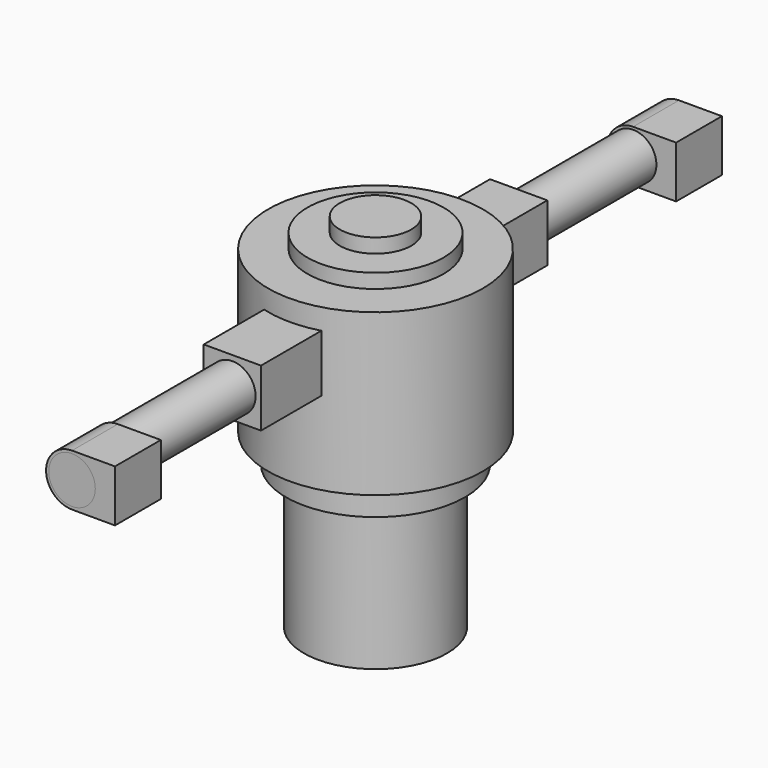
from build123d import *

# Parameters (mm, degrees)
F0_R      = 9.525
F1_DEPTH  = 14.2875
F2_R      = 6.0325
F3_DEPTH  = 1.27
F4_R      = 3.17246
F5_DEPTH  = 1.27
F7_W      = 5.08
F7_H      = 31.75
F8_DEPTH  = 5.08
F9_R      = 2.06375
F10_DEPTH = 12.7
F11_R     = 2.06375
F12_DEPTH = 5.08
F13_DEPTH = 5.08
F14_R     = 2.06375
F15_DEPTH = 12.7
F17_R     = 2.06375
F16_R     = 2.06375
F18_DEPTH = 5.08
F19_R     = 7.9375
F20_DEPTH = 2.54
F21_R     = 6.35
F22_DEPTH = 12.7


with BuildPart() as f1:
    # F0 (on Top) → F1 (new body)
    with BuildSketch(Plane.XY):
        Circle(F0_R)
    extrude(amount=F1_DEPTH)

    # F2 (on face) → F3 (join)
    with BuildSketch(Plane.XY.offset(14.2875)):
        Circle(F2_R)
    extrude(amount=F3_DEPTH)

    # F4 (on face) → F5 (join)
    with BuildSketch(Plane.XY.offset(15.5575)):
        Circle(F4_R)
    extrude(amount=F5_DEPTH)

    # F7 (on offset) → F8 (join)
    with BuildSketch(Plane.XY.offset(7.366)):
        Rectangle(F7_W, F7_H)
    extrude(amount=F8_DEPTH)

    # F9 (on face) → F10 (join)
    with BuildSketch(Plane.XZ.offset(15.875)):
        with Locations((0, 9.906)):
            Circle(F9_R)
    extrude(amount=F10_DEPTH)


with BuildPart() as f12:
    # F11 (on face) → F12 (new body)
    with BuildSketch(Plane.XZ.offset(28.575)):
        with BuildLine():
            Line((3.81, 12.2114717778), (0, 12.2114717778))
            Line((0, 12.2114717778), (0, 12.208837398))
            ThreePointArc((0, 12.208837398), (-2.302837398, 9.906), (0, 7.603162602))
            Line((0, 7.603162602), (0, 7.6005282222))
            Line((0, 7.6005282222), (3.81, 7.6005282222))
            Line((3.81, 7.6005282222), (3.81, 12.2114717778))
        make_face()
        with Locations((0, 9.906)):
            Circle(F11_R, mode=Mode.SUBTRACT)
    extrude(amount=F12_DEPTH)


with BuildPart() as f13:
    # F13 (new): a face of the model
    f13_faces = [f1.part.faces().sort_by_distance(p)[0] for p in [
        (0, -28.575, 9.906),
    ]]
    extrude(f13_faces, amount=F13_DEPTH)


with BuildPart() as f1_1:
    add(f1.part)

    # F14 (on face) → F15 (join)
    with BuildSketch(Plane(origin=(0, 15.875, 0), x_dir=(-1, 0, 0), z_dir=(0, 1, 0))):
        with Locations((0, 9.906)):
            Circle(F14_R)
    extrude(amount=F15_DEPTH)

    # F17 (on face) + F16 (on face) → F18 (join)
    with BuildSketch(Plane(origin=(0, 28.575, 0), x_dir=(-1, 0, 0), z_dir=(0, 1, 0))):
        with BuildLine():
            Line((-3.81, 7.6073), (0, 7.6073))
            ThreePointArc((0, 7.6073), (2.2987, 9.906), (0, 12.2047))
            Line((0, 12.2047), (-3.81, 12.2047))
            Line((-3.81, 12.2047), (-3.81, 7.6073))
        make_face()
        with Locations((0, 9.906)):
            Circle(F17_R, mode=Mode.SUBTRACT)
    with BuildSketch(Plane(origin=(0, 28.575, 0), x_dir=(-1, 0, 0), z_dir=(0, 1, 0))):
        with Locations((0, 9.906)):
            Circle(F16_R)
    extrude(amount=F18_DEPTH)

    # F19 (on face) → F20 (join)
    with BuildSketch(Plane(origin=(0, 0, 0), x_dir=(1, 0, 0), z_dir=(0, 0, -1))):
        Circle(F19_R)
    extrude(amount=F20_DEPTH)

    # F21 (on face) → F22 (join)
    with BuildSketch(Plane(origin=(0, 0, -2.54), x_dir=(1, 0, 0), z_dir=(0, 0, -1))):
        Circle(F21_R)
    extrude(amount=F22_DEPTH)


solid = Compound([f12.part, f13.part, f1_1.part])
